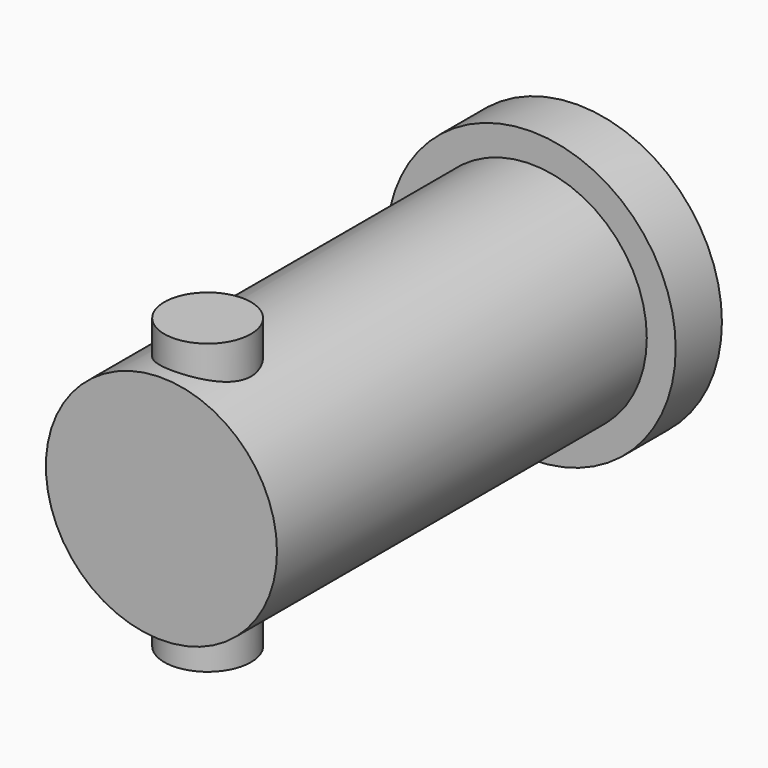
from build123d import *

# Parameters (mm, degrees)
F0_R     = 5
F1_DEPTH = 1
F2_R     = 4
F3_DEPTH = 16
F4_R     = 1.5
F5_DEPTH = 5


with BuildPart() as f1:
    # F0 (on Front) → F1 (new body, symmetric)
    with BuildSketch(Plane.XZ):
        Circle(F0_R)
    extrude(amount=F1_DEPTH, both=True)

    # F2 (on face) → F3 (join)
    with BuildSketch(Plane.XZ.offset(1)):
        Circle(F2_R)
    extrude(amount=F3_DEPTH)

    # F4 (on Top) → F5 (join, symmetric)
    with BuildSketch(Plane.XY):
        with Locations((0, -15)):
            Circle(F4_R)
    extrude(amount=F5_DEPTH, both=True)


solid = f1.part
